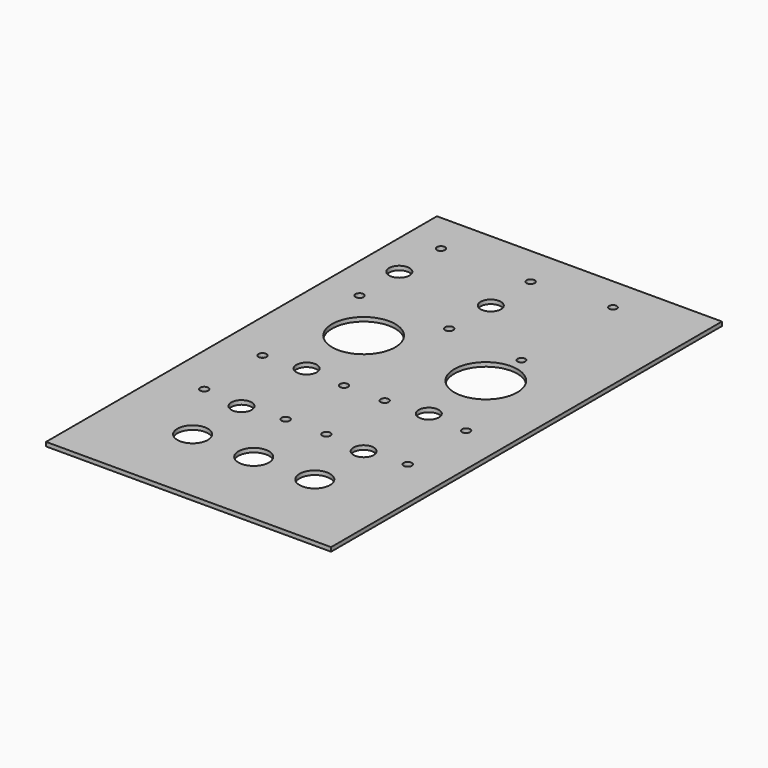
from build123d import *

# Parameters (mm, degrees)
F0_W     = 177.8
F0_H     = 304.8
F0_R     = 9.525
F0_R_2   = 2.54
F0_R_3   = 6.35
F0_R_4   = 19.685
F0_R_5   = 2.38125
F1_DEPTH = 2.54


with BuildPart() as f1:
    # F0 (on Top) → F1 (new body)
    with BuildSketch(Plane.XY):
        with Locations((88.9, -152.4)):
            Rectangle(F0_W, F0_H)
        with Locations((50.8, -254)):
            Circle(F0_R, mode=Mode.SUBTRACT)
        with Locations((25.4, -213.233)):
            Circle(F0_R_2, mode=Mode.SUBTRACT)
        with Locations((25.4, -167.767)):
            Circle(F0_R_2, mode=Mode.SUBTRACT)
        with Locations((50.8, -215.9)):
            Circle(F0_R_3, mode=Mode.SUBTRACT)
        with Locations((76.2, -213.233)):
            Circle(F0_R_2, mode=Mode.SUBTRACT)
        with Locations((50.8, -165.1)):
            Circle(F0_R_3, mode=Mode.SUBTRACT)
        with Locations((76.2, -167.767)):
            Circle(F0_R_2, mode=Mode.SUBTRACT)
        with Locations((88.9, -254)):
            Circle(F0_R, mode=Mode.SUBTRACT)
        with Locations((127, -254)):
            Circle(F0_R, mode=Mode.SUBTRACT)
        with Locations((101.6, -213.233)):
            Circle(F0_R_2, mode=Mode.SUBTRACT)
        with Locations((127, -215.9)):
            Circle(F0_R_3, mode=Mode.SUBTRACT)
        with Locations((101.6, -167.767)):
            Circle(F0_R_2, mode=Mode.SUBTRACT)
        with Locations((127, -165.1)):
            Circle(F0_R_3, mode=Mode.SUBTRACT)
        with Locations((152.4, -213.233)):
            Circle(F0_R_2, mode=Mode.SUBTRACT)
        with Locations((152.4, -167.767)):
            Circle(F0_R_2, mode=Mode.SUBTRACT)
        with Locations((22.8473, -88.9)):
            Circle(F0_R_2, mode=Mode.SUBTRACT)
        with Locations((50.8, -120.65)):
            Circle(F0_R_4, mode=Mode.SUBTRACT)
        with Locations((78.7527, -88.9)):
            Circle(F0_R_2, mode=Mode.SUBTRACT)
        with Locations((22.2758, -57.15)):
            Circle(F0_R_3, mode=Mode.SUBTRACT)
        with Locations((22.8473, -25.4)):
            Circle(F0_R_2, mode=Mode.SUBTRACT)
        with Locations((79.3242, -57.15)):
            Circle(F0_R_3, mode=Mode.SUBTRACT)
        with Locations((78.7527, -25.4)):
            Circle(F0_R_2, mode=Mode.SUBTRACT)
        with Locations((127, -120.65)):
            Circle(F0_R_4, mode=Mode.SUBTRACT)
        with Locations((127, -92.837)):
            Circle(F0_R_5, mode=Mode.SUBTRACT)
        with Locations((127, -21.463)):
            Circle(F0_R_5, mode=Mode.SUBTRACT)
    extrude(amount=F1_DEPTH)


solid = f1.part
